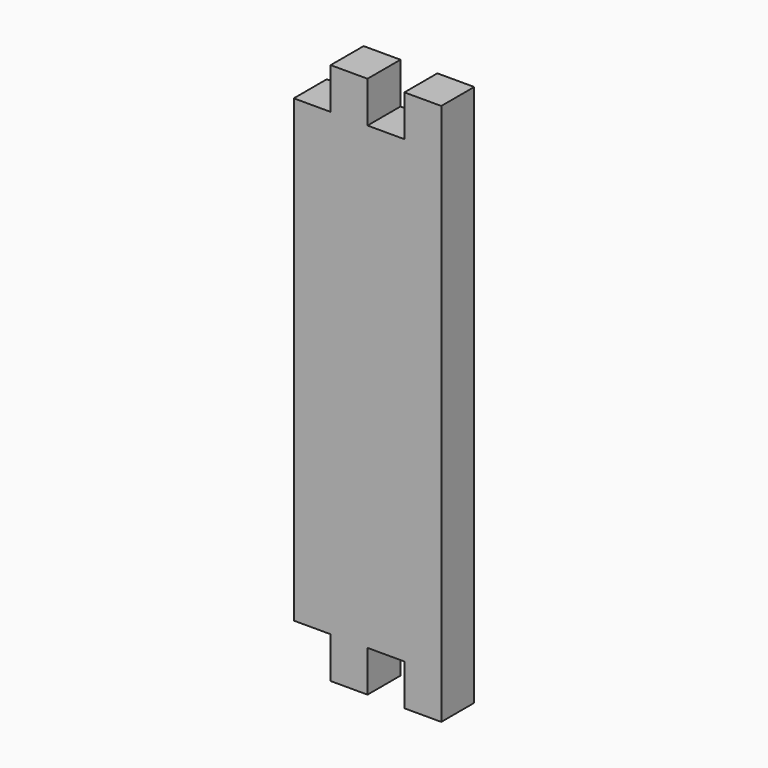
from build123d import *

# Parameters (mm, degrees)
F0_W     = 68
F0_H     = 250
F1_DEPTH = 19
F2_W     = 17
F2_H     = 19
F3_DEPTH = 19.001
F4_W     = 17
F4_H     = 19
F5_DEPTH = 19.001


with BuildPart() as f1:
    # F0 (on Front) → F1 (new body)
    with BuildSketch(Plane.XZ):
        Rectangle(F0_W, F0_H)
    extrude(amount=F1_DEPTH)

    # F2 (on face) → F3 (cut, through all)
    with BuildSketch(Plane.XZ.offset(19)):
        with Locations((8.5, 115.5)):
            Rectangle(F2_W, F2_H)
        with Locations((-25.5, 115.5)):
            Rectangle(F2_W, F2_H)
    extrude(amount=-F3_DEPTH, mode=Mode.SUBTRACT)

    # F4 (on face) → F5 (cut, through all)
    with BuildSketch(Plane(origin=(0, 0, 0), x_dir=(-1, 0, 0), z_dir=(0, 1, 0))):
        with Locations((25.5, -115.5)):
            Rectangle(F4_W, F4_H)
        with Locations((-8.5, -115.5)):
            Rectangle(F4_W, F4_H)
    extrude(amount=-F5_DEPTH, mode=Mode.SUBTRACT)


solid = f1.part
